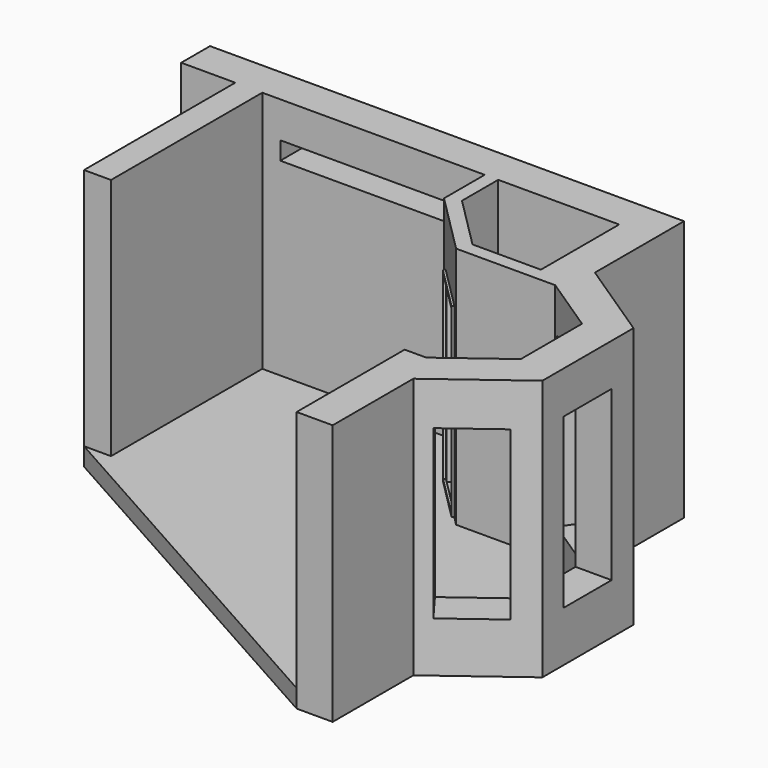
from build123d import *

# Parameters (mm, degrees)
F1_DEPTH  = 2700
F3_DEPTH  = 2700
F5_DEPTH  = 2700
F7_DEPTH  = 200
F8_W      = 690
F8_H      = 2060
F9_DEPTH  = 25
F10_W     = 670
F10_H     = 1870
F11_DEPTH = 500
F12_W     = 670
F12_H     = 1870
F13_DEPTH = 500
F14_W     = 670
F14_H     = 1860
F15_DEPTH = 500
F16_W     = 2000
F16_H     = 200
F17_DEPTH = 500
F19_W     = 590
F19_H     = 1990
F20_DEPTH = 300
F21_W     = 640
F21_H     = 2010
F22_DEPTH = 25


with BuildPart() as f1:
    # F0 (on Top) → F1 (new body)
    with BuildSketch(Plane.XY):
        Polygon((-112.5301761598, -3187.5261832562), (-112.5301761598, -1087.5261832562), (2357.4698238402, -1087.5261832562), (2357.4698238402, -1652.5261832562), (3029.2212659674, -2324.2776253835), (4130.2212659674, -2324.2776253835), (4763.624770852, -2744.2776253835), (4763.624770852, -3594.2776253835), (4106.1295237209, -4084.2776253835), (3866.1295237209, -4084.2776253835), (3866.1295237209, -5584.2776253835), (4266.1295237209, -5584.2776253835), (4266.1295237209, -4463.9001414231), (5163.624770852, -3795.0395329044), (5163.624770852, -2529.5645728802), (4250.7893565536, -1924.2776253835), (3194.9066909167, -1924.2776253835), (2757.4698238402, -1486.840758307), (2757.4698238402, -687.5261832562), (-114.0150137984, -687.5261832562), (-1013.0051374435, -687.5261832562), (-1013.0051374435, -1087.5261832562), (-412.5301761598, -1087.5261832562), (-412.5301761598, -3187.5261832562), align=None)
    extrude(amount=F1_DEPTH)

    # F2 (on Top) → F3 (join)
    with BuildSketch(Plane.XY):
        Polygon((3850.7893565536, -1087.5261832562), (3850.7893565536, -1924.2776253835), (4250.7893565536, -1924.2776253835), (4250.7893565536, -687.5261832562), (2757.4698238402, -687.5261832562), (2757.4698238402, -1087.5261832562), align=None)
    extrude(amount=F3_DEPTH)

    # F4 (on Top) → F5 (cut)
    with BuildSketch(Plane.XY):
        Polygon((2757.4698238402, -1486.840758307), (2757.4698238402, -1087.5261832562), (2507.4698238402, -1087.5261832562), (2507.4698238402, -1590.3941489003), (3091.3533003234, -2174.2776253835), (3850.7893565536, -2174.2776253835), (3850.7893565536, -1924.2776253835), (3194.9066909167, -1924.2776253835), align=None)
    extrude(amount=F5_DEPTH, mode=Mode.SUBTRACT)

    # F6 (on face) → F7 (join)
    with BuildSketch(Plane(origin=(0, 0, 0), x_dir=(1, 0, 0), z_dir=(0, 0, -1))):
        Polygon((-1013.0051374435, 1087.5261832562), (-1013.0051374435, 687.5261832562), (4250.7893565536, 687.5261832562), (4250.7893565536, 1924.2776253835), (5163.624770852, 2529.5645728802), (5163.624770852, 3795.0395329044), (4266.1295237209, 4463.9001414231), (4266.1295237209, 5584.2776253835), (3866.1295237209, 5584.2776253835), (3866.1295237209, 4084.2776253835), (4106.1295237209, 4084.2776253835), (4763.624770852, 3594.2776253835), (4763.624770852, 2744.2776253835), (4130.2212659674, 2324.2776253835), (3029.2212659674, 2324.2776253835), (2357.4698238402, 1652.5261832562), (2357.4698238402, 1087.5261832562), (-112.5301761598, 1087.5261832562), (-112.5301761598, 3187.5261832562), (-412.5301761598, 3187.5261832562), (-412.5301761598, 1087.5261832562), align=None)
        Polygon((3850.7893565536, 2174.2776253835), (3850.7893565536, 1087.5261832562), (2507.4698238402, 1087.5261832562), (2507.4698238402, 1590.3941489003), (3091.3533003234, 2174.2776253835), align=None, mode=Mode.SUBTRACT)
        Polygon((-412.5301761598, 3187.5261832562), (-1013.0051374435, 1087.5261832562), (-412.5301761598, 1087.5261832562), align=None)
        Polygon((3866.1295237209, 5584.2776253835), (-412.5301761598, 3187.5261832562), (-112.5301761598, 3187.5261832562), (-112.5301761598, 1087.5261832562), (2357.4698238402, 1087.5261832562), (2357.4698238402, 1652.5261832562), (3029.2212659674, 2324.2776253835), (4130.2212659674, 2324.2776253835), (4763.624770852, 2744.2776253835), (4763.624770852, 3594.2776253835), (4106.1295237209, 4084.2776253835), (3866.1295237209, 4084.2776253835), align=None)
        Polygon((2507.4698238402, 1087.5261832562), (3850.7893565536, 1087.5261832562), (3850.7893565536, 2174.2776253835), (3091.3533003234, 2174.2776253835), (2507.4698238402, 1590.3941489003), align=None)
    extrude(amount=F7_DEPTH)

    # F8 (on face) → F9 (join)
    with BuildSketch(Plane(origin=(352.471820292, 352.471820292, 0), x_dir=(0.7071067812, -0.7071067812, 0), z_dir=(-0.7071067812, -0.7071067812, 0))):
        with Locations((3310.4953691489, 1040)):
            Rectangle(F8_W, F8_H)
    extrude(amount=F9_DEPTH)

    # F10 (on face) → F11 (cut)
    with BuildSketch(Plane(origin=(190.8668312583, 287.8469521076, 0), x_dir=(0.8334256643, -0.5526315789, 0), z_dir=(-0.5526315789, -0.8334256643, 0))):
        with Locations((5106.7016164124, 1295)):
            Rectangle(F10_W, F10_H)
    extrude(amount=-F11_DEPTH, mode=Mode.SUBTRACT)

    # F12 (on face) → F13 (cut)
    with BuildSketch(Plane(origin=(4763.624770852, 0, 0), x_dir=(0, -1, 0), z_dir=(-1, 0, 0))):
        with Locations((3169.2776253835, 1295)):
            Rectangle(F12_W, F12_H)
    extrude(amount=-F13_DEPTH, mode=Mode.SUBTRACT)

    # F14 (on face) → F15 (cut)
    with BuildSketch(Plane(origin=(3423.1474281761, -4593.2717637855, 0), x_dir=(-0.8018234721, -0.5975609756, 0), z_dir=(-0.5975609756, 0.8018234721, 0))):
        with Locations((-1261.7861091626, 1290)):
            Rectangle(F14_W, F14_H)
    extrude(amount=-F15_DEPTH, mode=Mode.SUBTRACT)

    # F16 (on face) → F17 (cut)
    with BuildSketch(Plane.XZ.offset(1087.5261832562)):
        with Locations((1087.4698238402, 2200)):
            Rectangle(F16_W, F16_H)
    extrude(amount=-F17_DEPTH, mode=Mode.SUBTRACT)

    # F19 (on face) → F20 (cut)
    with BuildSketch(Plane(origin=(352.471820292, 352.471820292, 0), x_dir=(0.7071067812, -0.7071067812, 0), z_dir=(-0.7071067812, -0.7071067812, 0))):
        with Locations((3310.4953691489, 1015)):
            Rectangle(F19_W, F19_H)
    extrude(amount=-F20_DEPTH, mode=Mode.SUBTRACT)

    # F21 (on face) → F22 (cut)
    with BuildSketch(Plane(origin=(334.7941507623, 334.7941507623, 0), x_dir=(0.7071067812, -0.7071067812, 0), z_dir=(-0.7071067812, -0.7071067812, 0))):
        with Locations((3310.4953691489, 1040)):
            Rectangle(F21_W, F21_H)
    extrude(amount=-F22_DEPTH, mode=Mode.SUBTRACT)


solid = f1.part
